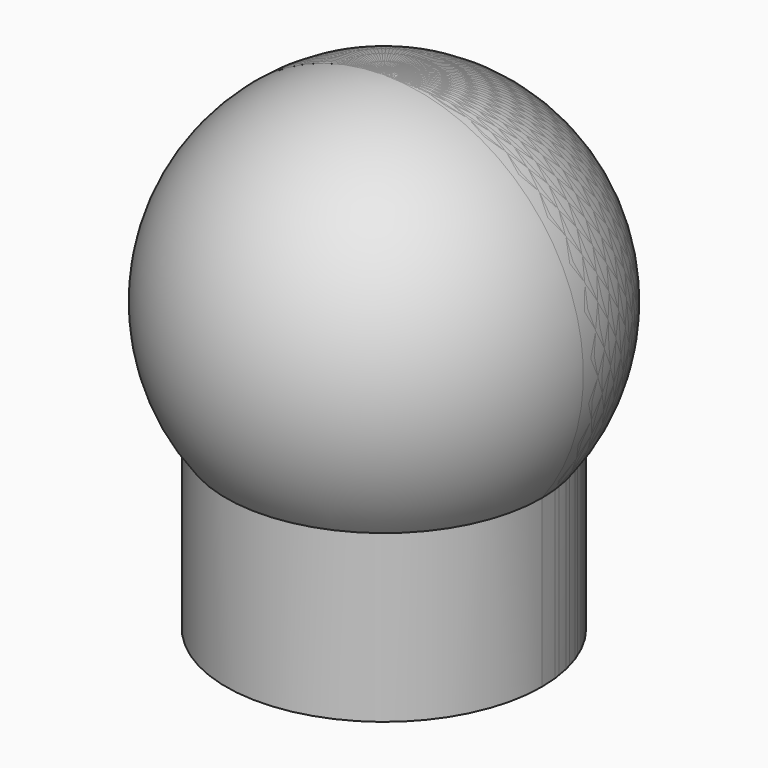
from build123d import *

# Parameters (mm, degrees)
F2_ANGLE = 180


with BuildPart() as f1:
    # F0 (on Front) → F1 (revolve)
    with BuildSketch(Plane.XZ):
        with BuildLine():
            Line((0, 14.6657195747), (0, 0))
            Line((0, 0), (4.75, 0))
            Line((4.75, 0), (4.75, 5))
            ThreePointArc((4.75, 5), (5.3849009948, 11.3120077819), (0, 14.6657195747))
        make_face()
    revolve(axis=Axis((0, 0, 7.3328597873), (0, 0, 1)))


with BuildPart() as f2:
    # F0 (on Front) → F2 (revolve)
    with BuildSketch(Plane.XZ):
        with BuildLine():
            Line((0, 14.6657195747), (0, 0))
            Line((0, 0), (4.75, 0))
            Line((4.75, 0), (4.75, 5))
            ThreePointArc((4.75, 5), (5.3849009948, 11.3120077819), (0, 14.6657195747))
        make_face()
    revolve(axis=Axis((0, 0, 7.3328597873), (0, 0, 1)), revolution_arc=F2_ANGLE)


solid = Compound([f1.part, f2.part])
